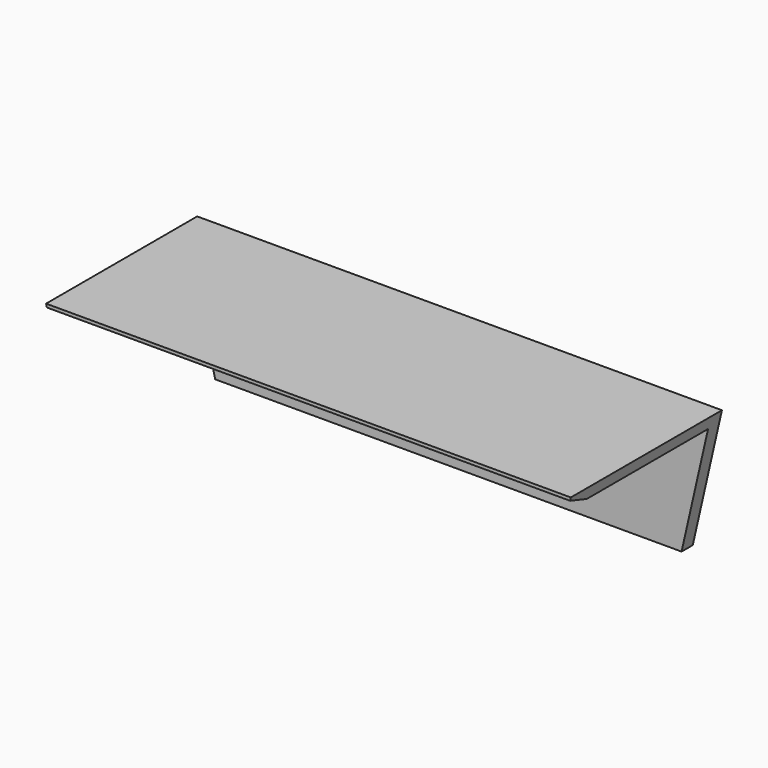
from build123d import *

# Parameters (mm, degrees)
F1_DEPTH = 114.3
F3_DEPTH = 41.149
F4_SIZE2 = 1.848969
F4_SIZE  = 5.08


with BuildPart() as f1:
    # F0 (on Right) → F1 (new body)
    with BuildSketch(Plane.YZ):
        Polygon((0, 25.4), (0, 0), (3.048, 0), (3.048, 27.94), (-38.1, 27.94), (-38.1, 25.4), align=None)
    extrude(amount=F1_DEPTH)

    # F2 (on face) → F3 (cut, through all)
    with BuildSketch(Plane(origin=(0, 3.048, 0), x_dir=(-1, 0, 0), z_dir=(0, 1, 0))):
        Polygon((-107.95, 0), (-114.3, 27.94), (-114.3, 0), align=None)
        Polygon((0, 0), (0, 27.94), (-6.35, 0), align=None)
    extrude(amount=-F3_DEPTH, mode=Mode.SUBTRACT)

    # F4
    f4_edges = [f1.edges().sort_by_distance(p)[0] for p in [
        (57.15, -38.1, 25.4),
    ]]
    chamfer(f4_edges, length=F4_SIZE, length2=F4_SIZE2)


solid = f1.part
